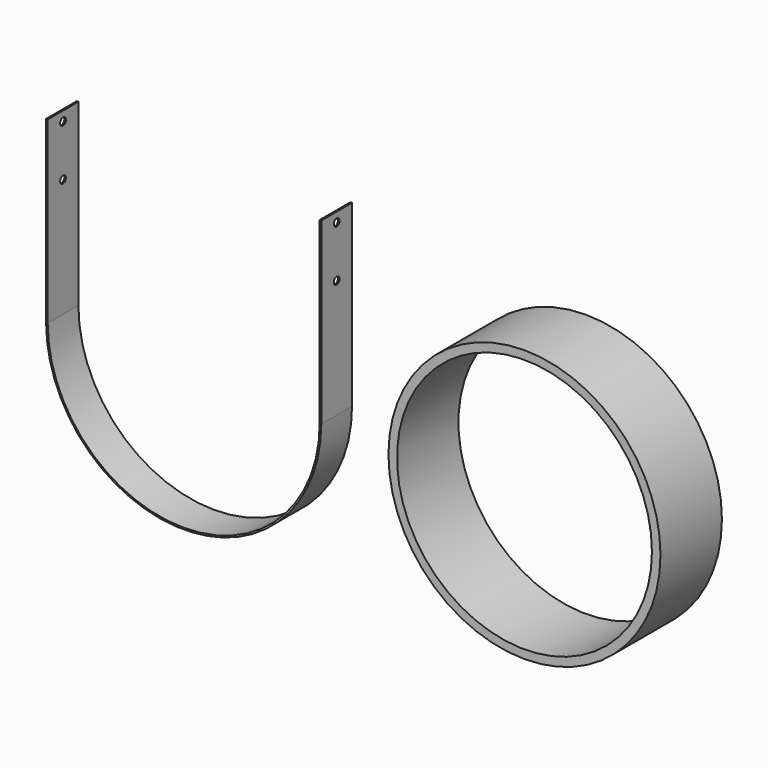
from build123d import *

# Parameters (mm, degrees)
F1_DEPTH = 38.1
F2_R     = 7.14375
F3_DEPTH = 317.5
F4_R     = 269.875
F4_R_2   = 252.914698
F5_DEPTH = 76.2


with BuildPart() as f1:
    # F0 (on Front) → F1 (new body, symmetric)
    with BuildSketch(Plane.XZ):
        with BuildLine():
            ThreePointArc((269.875, 0), (0, -269.875), (-269.875, 0))
            Line((-269.875, 0), (-269.875, 355.6))
            Line((-269.875, 355.6), (-273.05, 355.6))
            Line((-273.05, 355.6), (-273.05, 0))
            ThreePointArc((-273.05, 0), (0, -273.05), (273.05, 0))
            Line((273.05, 0), (273.05, 355.6))
            Line((273.05, 355.6), (269.875, 355.6))
            Line((269.875, 355.6), (269.875, 0))
        make_face()
    extrude(amount=F1_DEPTH, both=True)

    # F2 (on Right) → F3 (cut, symmetric)
    with BuildSketch(Plane.YZ):
        with Locations((0, 336.55)):
            Circle(F2_R)
        with Locations((0, 234.95)):
            Circle(F2_R)
    extrude(amount=F3_DEPTH, both=True, mode=Mode.SUBTRACT)


with BuildPart() as f5:
    # F4 (on Front) → F5 (new body, symmetric)
    with BuildSketch(Plane.XZ):
        with Locations((706.710875, 15.77512)):
            Circle(F4_R)
        with Locations((706.710875, 15.77512)):
            Circle(F4_R_2, mode=Mode.SUBTRACT)
    extrude(amount=F5_DEPTH, both=True)


solid = Compound([f1.part, f5.part])
